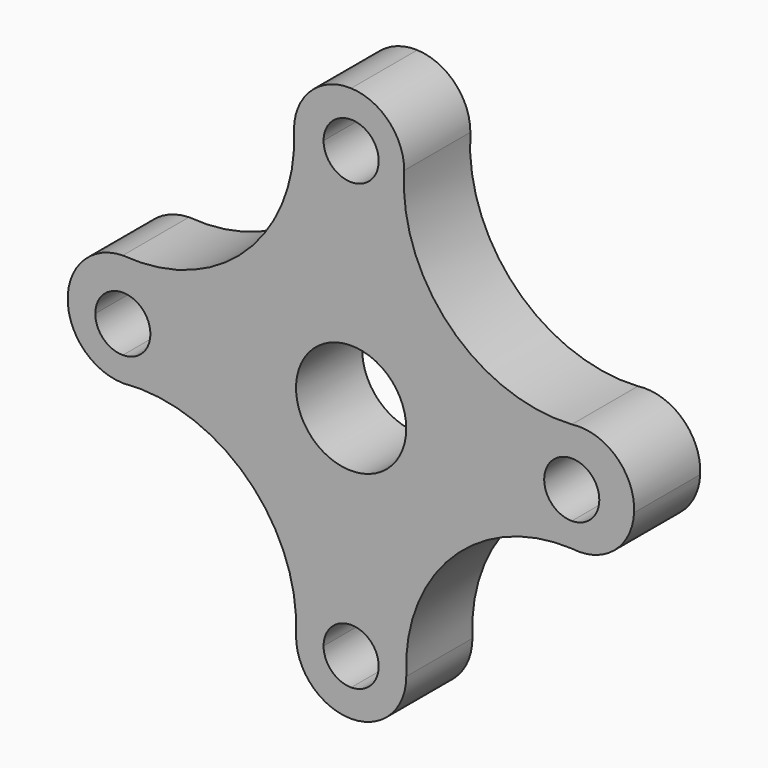
from build123d import *

# Parameters (mm, degrees)
F0_R     = 12.7
F1_DEPTH = 19.05


with BuildPart() as f1:
    # F0 (on Front) → F1 (new body)
    with BuildSketch(Plane.XZ):
        with BuildLine():
            Line((12.23147, 52.190307), (6.35, 52.190307))
            ThreePointArc((6.35, 52.190307), (0, 45.840307), (-6.35, 52.190307))
            Line((-6.35, 52.190307), (-13.16853, 52.190307))
            ThreePointArc((-13.16853, 52.190307), (-24.185423, 24.077807), (-52.602746, 13.872888))
            Line((-52.602746, 13.872888), (-52.602746, 6.35))
            ThreePointArc((-52.602746, 6.35), (-48.112618, 4.490128), (-46.252746, 0))
            ThreePointArc((-46.252746, 0), (-48.112618, -4.490128), (-52.602746, -6.35))
            Line((-52.602746, -6.35), (-52.602746, -12.031119))
            ThreePointArc((-52.602746, -12.031119), (-23.888564, -22.029354), (-12.7, -50.300982))
            Line((-12.7, -50.300982), (-6.35, -50.300982))
            ThreePointArc((-6.35, -50.300982), (0, -43.950982), (6.35, -50.300982))
            Line((6.35, -50.300982), (12.7, -50.300982))
            ThreePointArc((12.7, -50.300982), (23.267131, -22.677459), (50.825791, -11.942305))
            Line((50.825791, -11.942305), (50.825791, -6.35))
            ThreePointArc((50.825791, -6.35), (44.475791, 0), (50.825791, 6.35))
            Line((50.825791, 6.35), (50.825791, 13.234786))
            ThreePointArc((50.825791, 13.234786), (22.719563, 23.985158), (12.23147, 52.190307))
        make_face()
        Circle(F0_R, mode=Mode.SUBTRACT)
        with BuildLine():
            ThreePointArc((0, 58.540307), (4.490128, 56.680435), (6.35, 52.190307))
            Line((6.35, 52.190307), (12.23147, 52.190307))
            ThreePointArc((12.23147, 52.190307), (8.675876, 61.003356), (0, 64.881661))
            Line((0, 64.881661), (0, 58.540307))
        make_face()
        with BuildLine():
            ThreePointArc((-6.35, 52.190307), (-4.490128, 56.680435), (0, 58.540307))
            Line((0, 58.540307), (0, 64.881661))
            ThreePointArc((0, 64.881661), (-9.281579, 61.334713), (-13.16853, 52.190307))
            Line((-13.16853, 52.190307), (-6.35, 52.190307))
        make_face()
        with BuildLine():
            ThreePointArc((65.188185, 0), (61.110783, 9.985633), (50.825791, 13.234786))
            Line((50.825791, 13.234786), (50.825791, 6.35))
            ThreePointArc((50.825791, 6.35), (55.315919, 4.490128), (57.175791, 0))
            Line((57.175791, 0), (65.188185, 0))
        make_face()
        with BuildLine():
            Line((-52.602746, 6.35), (-52.602746, 13.872888))
            ThreePointArc((-52.602746, 13.872888), (-61.916345, 9.656853), (-65.272424, 0))
            Line((-65.272424, 0), (-58.952746, 0))
            ThreePointArc((-58.952746, 0), (-57.092874, 4.490128), (-52.602746, 6.35))
        make_face()
        with BuildLine():
            ThreePointArc((50.825791, -11.942305), (60.624398, -9.118977), (65.188185, 0))
            Line((65.188185, 0), (57.175791, 0))
            ThreePointArc((57.175791, 0), (55.315919, -4.490128), (50.825791, -6.35))
            Line((50.825791, -6.35), (50.825791, -11.942305))
        make_face()
        with BuildLine():
            Line((-58.952746, 0), (-65.272424, 0))
            ThreePointArc((-65.272424, 0), (-61.271138, -8.472967), (-52.602746, -12.031119))
            Line((-52.602746, -12.031119), (-52.602746, -6.35))
            ThreePointArc((-52.602746, -6.35), (-57.092874, -4.490128), (-58.952746, 0))
        make_face()
        with BuildLine():
            ThreePointArc((0, -63.000982), (8.980256, -59.281238), (12.7, -50.300982))
            Line((12.7, -50.300982), (6.35, -50.300982))
            ThreePointArc((6.35, -50.300982), (4.490128, -54.79111), (0, -56.650982))
            Line((0, -56.650982), (0, -63.000982))
        make_face()
        with BuildLine():
            Line((-6.35, -50.300982), (-12.7, -50.300982))
            ThreePointArc((-12.7, -50.300982), (-8.980256, -59.281238), (0, -63.000982))
            Line((0, -63.000982), (0, -56.650982))
            ThreePointArc((0, -56.650982), (-4.490128, -54.79111), (-6.35, -50.300982))
        make_face()
    extrude(amount=F1_DEPTH)


solid = f1.part
